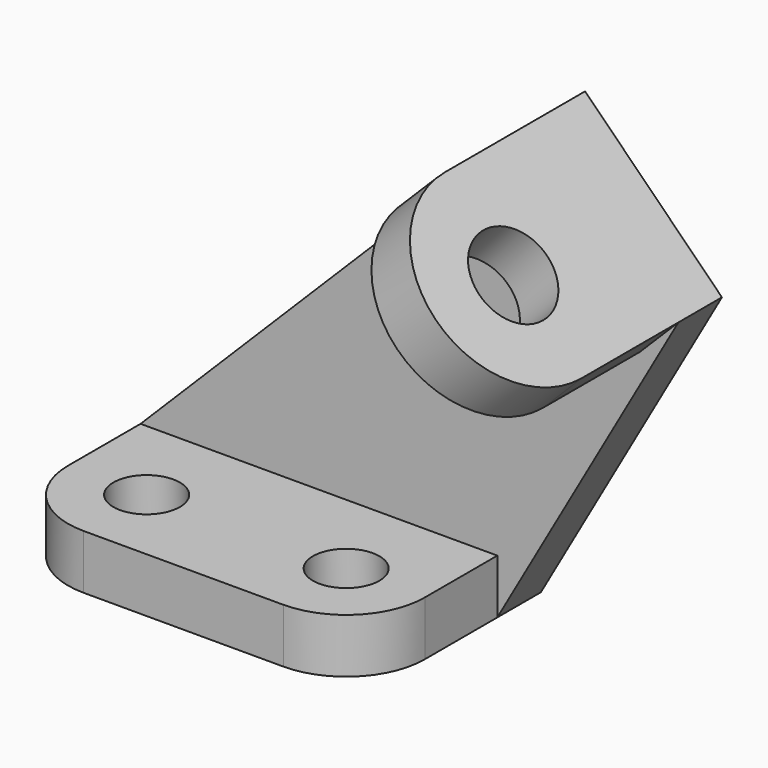
from build123d import *

# Parameters (mm, degrees)
F0_R     = 5.5
F1_DEPTH = 9
F3_DEPTH = 9
F4_R     = 7
F5_DEPTH = 9


with BuildPart() as f1:
    # F0 (on Top) → F1 (new body)
    with BuildSketch(Plane.XY):
        with BuildLine():
            Line((46, 24), (-13, 24))
            Line((-13, 24), (-13, 0))
            ThreePointArc((-13, 0), (-9.1923881554, -9.1923881554), (0, -13))
            Line((0, -13), (33, -13))
            ThreePointArc((33, -13), (42.1923881554, -9.1923881554), (46, 0))
            Line((46, 0), (46, 24))
        make_face()
        Circle(F0_R, mode=Mode.SUBTRACT)
        with Locations((33, 0)):
            Circle(F0_R, mode=Mode.SUBTRACT)
    extrude(amount=-F1_DEPTH)

    # F2 (on face) → F3 (join)
    with BuildSketch(Plane(origin=(0, 24, 0), x_dir=(-1, 0, 0), z_dir=(0, 1, 0))):
        Polygon((-75.941125497, 43.686291501), (-46, -9), (-46, 0), (13, 0), (-53.313708499, 66.313708499), align=None)
    extrude(amount=-F3_DEPTH)

    # F4 (on face) → F5 (join)
    with BuildSketch(Plane(origin=(59.813708499, 0, 59.813708499), x_dir=(0.7071067812, 0, -0.7071067812), z_dir=(0.7071067812, 0, 0.7071067812))):
        with BuildLine():
            Line((22.8076118446, -5), (22.8076118446, 15))
            Line((22.8076118446, 15), (-9.1923881554, 15))
            Line((-9.1923881554, 15), (-9.1923881554, -5))
            ThreePointArc((-9.1923881554, -5), (6.8076118446, -21), (22.8076118446, -5))
        make_face()
        with Locations((6.8076118446, -5)):
            Circle(F4_R, mode=Mode.SUBTRACT)
    extrude(amount=-F5_DEPTH)


solid = f1.part
